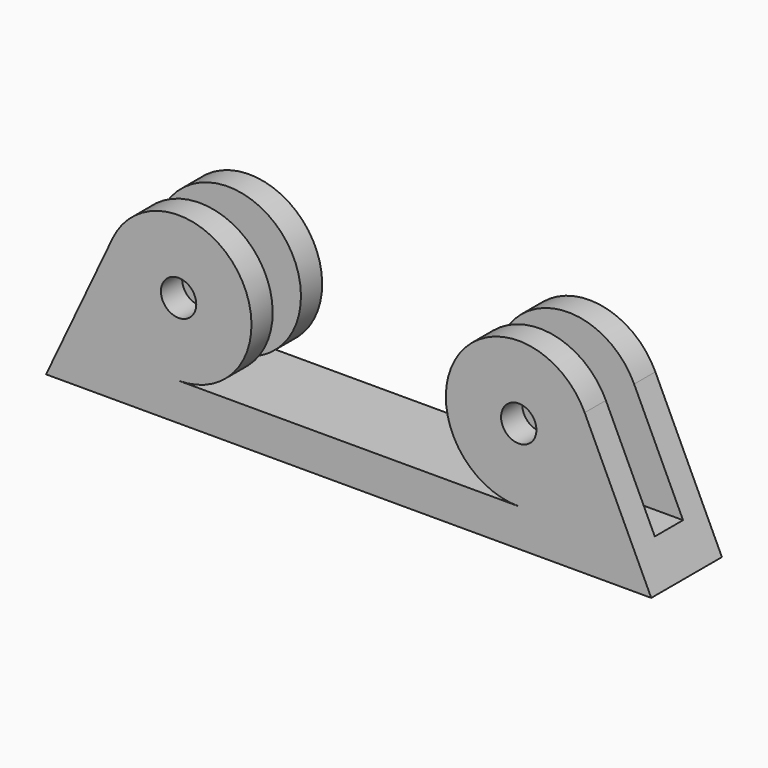
from build123d import *

# Parameters (mm, degrees)
F0_R          = 4
F1_DEPTH      = 20
F2_W          = 8
F2_H          = 60.2939470698
F3_DEPTH      = 128.3
F3_DEPTH_BACK = 41.8


with BuildPart() as f1:
    # F0 (on Front) → F1 (new body)
    with BuildSketch(Plane.XZ):
        with BuildLine():
            Line((77, -16.5), (0, -16.5))
            ThreePointArc((0, -16.5), (13.9314518969, 8.8410773125), (-14.9295810055, 7.0254972066))
            Line((-14.9295810055, 7.0254972066), (-30, -25))
            Line((-30, -25), (107, -25))
            Line((107, -25), (91.9295810055, 7.0254972066))
            ThreePointArc((91.9295810055, 7.0254972066), (63.0685481031, 8.8410773125), (77, -16.5))
        make_face()
        Circle(F0_R, mode=Mode.SUBTRACT)
        with Locations((77, 0)):
            Circle(F0_R, mode=Mode.SUBTRACT)
    extrude(amount=F1_DEPTH)

    # F2 (on Right) → F3 (cut, two sides)
    with BuildSketch(Plane.YZ) as f3_sk:
        with Locations((-10, 13.6469735349)):
            Rectangle(F2_W, F2_H)
    extrude(amount=F3_DEPTH, mode=Mode.SUBTRACT)
    extrude(f3_sk.sketch, amount=-F3_DEPTH_BACK, mode=Mode.SUBTRACT)


solid = f1.part
